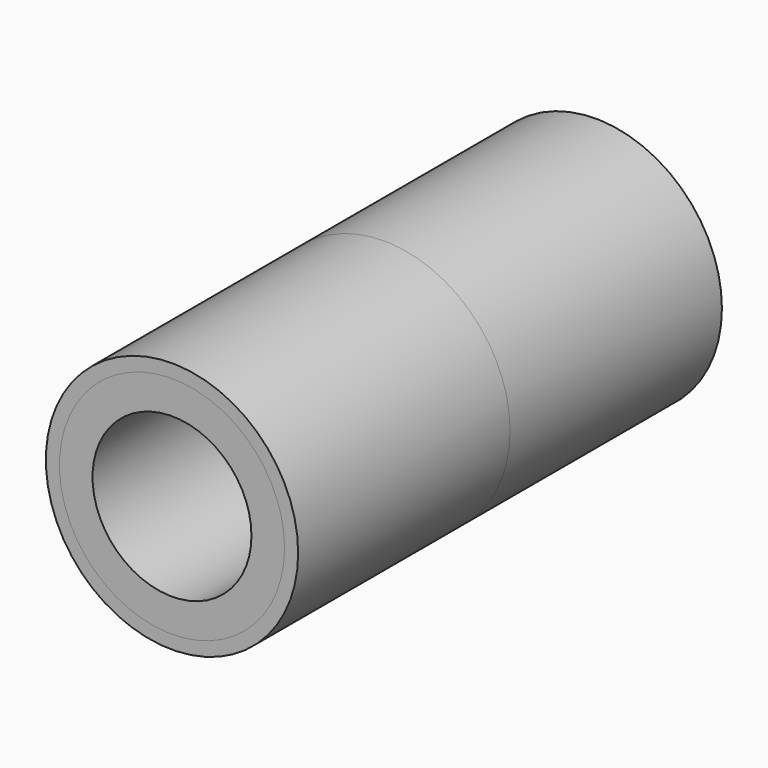
from build123d import *

# Parameters (mm, degrees)
F0_R     = 17
F0_R_2   = 12
F1_DEPTH = 40
F0_R_3   = 19.05
F2_DEPTH = 40
F3_DEPTH = 40


with BuildPart() as f1:
    # F0 (on Front) → F1 (new body)
    with BuildSketch(Plane.XZ):
        Circle(F0_R)
        Circle(F0_R_2, mode=Mode.SUBTRACT)
    extrude(amount=F1_DEPTH)


with BuildPart() as f2:
    # F0 (on Front) → F2 (new body)
    with BuildSketch(Plane.XZ):
        Circle(F0_R_3)
        Circle(F0_R, mode=Mode.SUBTRACT)
    extrude(amount=-F2_DEPTH)


with BuildPart() as f3:
    # F0 (on Front) → F3 (new body)
    with BuildSketch(Plane.XZ):
        Circle(F0_R_3)
        Circle(F0_R, mode=Mode.SUBTRACT)
    extrude(amount=F3_DEPTH)


solid = Compound([f1.part, f2.part, f3.part])
